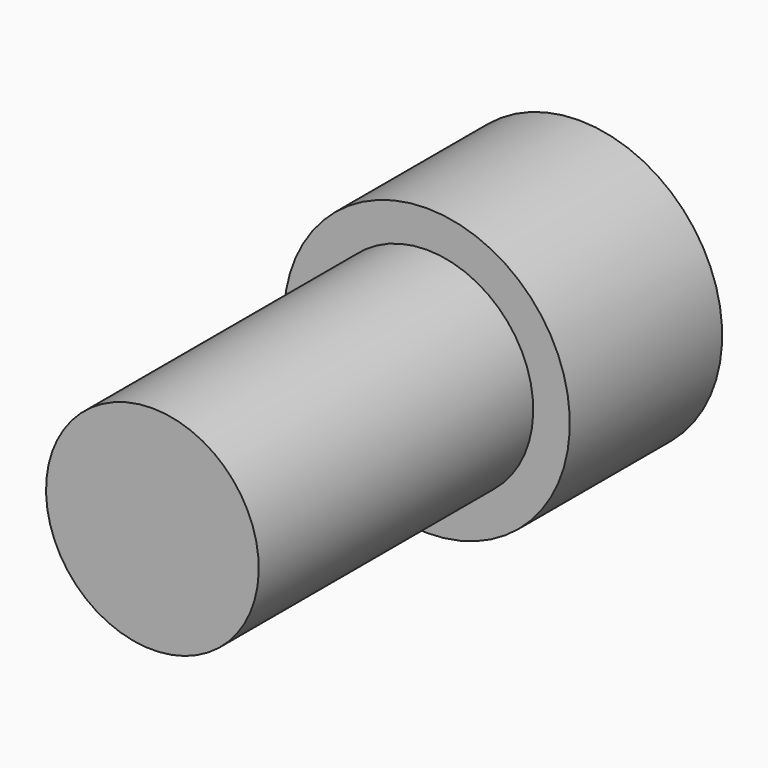
from build123d import *


with BuildPart() as f1:
    # F0 (on Right) → F1 (revolve)
    with BuildSketch(Plane.YZ):
        with BuildLine():
            Line((0, 1.1811), (0, 0))
            Line((0, 0), (6.35, 0))
            ThreePointArc((6.35, 0), (6.241814, 0.82175), (5.924631, 1.5875))
            Line((5.924631, 1.5875), (3.81, 1.5875))
            Line((3.81, 1.5875), (3.81, 1.1811))
            Line((3.81, 1.1811), (0, 1.1811))
        make_face()
    revolve(axis=Axis((0, 3.175, 0), (0, 1, 0)))


solid = f1.part
